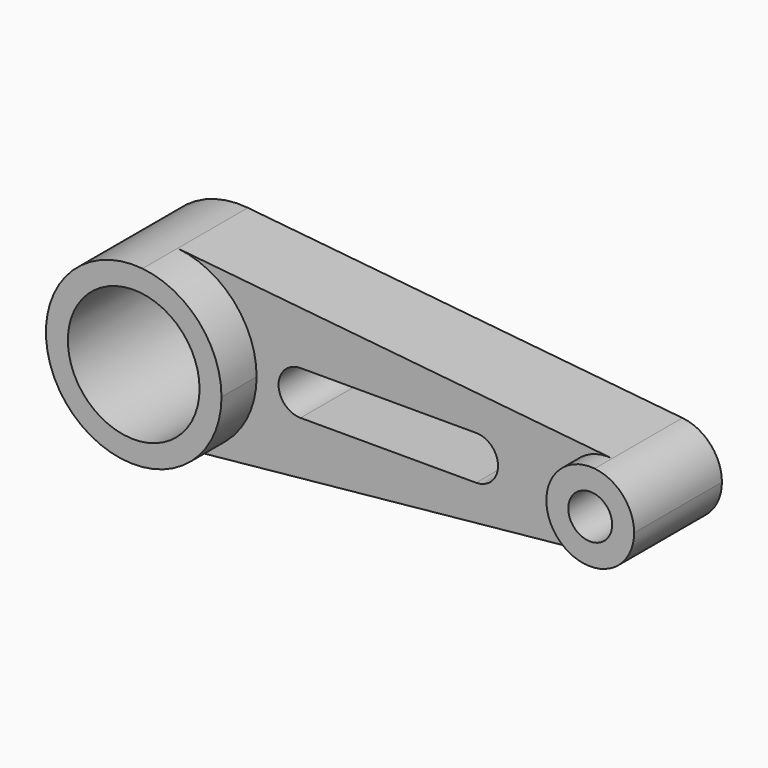
from build123d import *

# Parameters (mm, degrees)
F0_R     = 19.05
F1_DEPTH = 38.1
F2_DEPTH = 25.4
F0_R_2   = 6.35
F3_DEPTH = 31.75


with BuildPart() as f1:
    # F0 (on Front) → F1 (new body)
    with BuildSketch(Plane.XZ):
        with BuildLine():
            ThreePointArc((-77.568654, -25.272681), (-61.27151, -17.038838), (-54.708654, 0))
            ThreePointArc((-54.708654, 0), (-61.27151, 17.038838), (-77.568654, 25.272681))
            ThreePointArc((-77.568654, 25.272681), (-105.508654, 0), (-77.568654, -25.272681))
        make_face()
        with Locations((-80.108654, 0)):
            Circle(F0_R, mode=Mode.SUBTRACT)
    extrude(amount=F1_DEPTH)

    # F0 (on Front) → F2 (join)
    with BuildSketch(Plane.XZ):
        with BuildLine():
            ThreePointArc((-77.568654, 25.272681), (-61.27151, 17.038838), (-54.708654, 0))
            ThreePointArc((-54.708654, 0), (-61.27151, -17.038838), (-77.568654, -25.272681))
            Line((-77.568654, -25.272681), (48.161346, -12.63634))
            ThreePointArc((48.161346, -12.63634), (34.191346, 0), (48.161346, 12.63634))
            Line((48.161346, 12.63634), (-77.568654, 25.272681))
        make_face()
        with BuildLine():
            ThreePointArc((-42.008654, -6.35), (-48.358654, 0), (-42.008654, 6.35))
            Line((-42.008654, 6.35), (8.791346, 6.35))
            ThreePointArc((8.791346, 6.35), (15.141346, 0), (8.791346, -6.35))
            Line((8.791346, -6.35), (-42.008654, -6.35))
        make_face(mode=Mode.SUBTRACT)
    extrude(amount=F2_DEPTH)

    # F0 (on Front) → F3 (join)
    with BuildSketch(Plane.XZ):
        with BuildLine():
            ThreePointArc((59.591346, 0), (56.309918, 8.519419), (48.161346, 12.63634))
            ThreePointArc((48.161346, 12.63634), (34.191346, 0), (48.161346, -12.63634))
            ThreePointArc((48.161346, -12.63634), (56.309918, -8.519419), (59.591346, 0))
        make_face()
        with Locations((46.891346, 0)):
            Circle(F0_R_2, mode=Mode.SUBTRACT)
    extrude(amount=F3_DEPTH)


solid = f1.part
